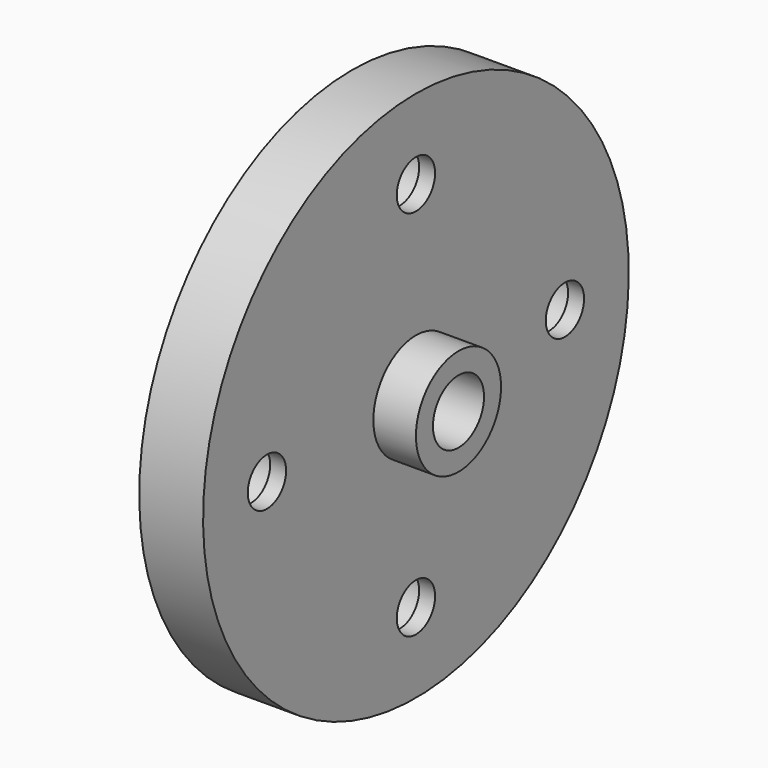
from build123d import *

# Parameters (mm, degrees)
F2_R     = 6.5
F2_R_2   = 4.5
F3_DEPTH = 9
F4_DEPTH = 20.001


with BuildPart() as f1:
    # F0 (on Front) → F1 (revolve)
    with BuildSketch(Plane.XZ):
        Polygon((0, 50), (0, 6), (20, 6), (20, 10), (12, 10), (12, 50), align=None)
    revolve(axis=Axis((26.5880525112, 0, 0), (1, 0, 0)))

    # F2 (on face) → F3 (cut)
    with BuildSketch(Plane(origin=(0, 0, 0), x_dir=(0, -1, 0), z_dir=(-1, 0, 0))):
        with Locations((0, 35)):
            Circle(F2_R)
        with Locations((0, 35)):
            Circle(F2_R_2, mode=Mode.SUBTRACT)
        with Locations((-35, 0)):
            Circle(F2_R)
        with Locations((-35, 0)):
            Circle(F2_R_2, mode=Mode.SUBTRACT)
        with Locations((0, -35)):
            Circle(F2_R)
        with Locations((0, -35)):
            Circle(F2_R_2, mode=Mode.SUBTRACT)
        with Locations((35, 0)):
            Circle(F2_R)
        with Locations((35, 0)):
            Circle(F2_R_2, mode=Mode.SUBTRACT)
    extrude(amount=-F3_DEPTH, mode=Mode.SUBTRACT)

    # F4 (cut, through all): faces of the model
    f4_faces = [f1.faces().sort_by_distance(p)[0] for p in [
        (0, 0, 35),
        (0, 35, 0),
        (0, 0, -35),
        (0, -35, 0),
    ]]
    extrude(f4_faces, amount=-F4_DEPTH, mode=Mode.SUBTRACT)


solid = f1.part
